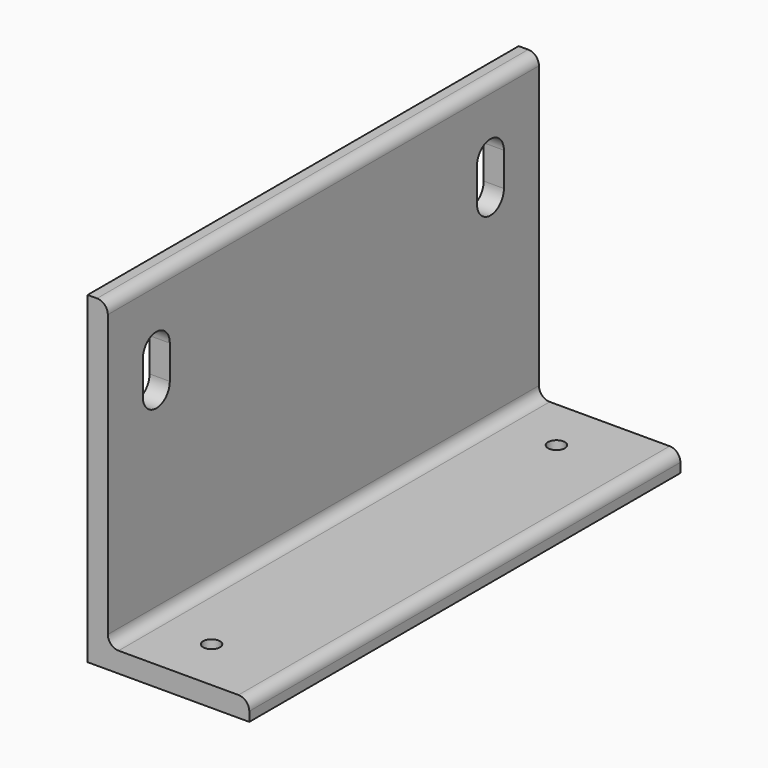
from build123d import *

# Parameters (mm, degrees)
F1_DEPTH = 127
F2_R     = 5.08
F4_DEPTH = 25.4
F5_R     = 3.9624
F6_DEPTH = 25.4


with BuildPart() as f1:
    # F0 (on Front) → F1 (new body, symmetric)
    with BuildSketch(Plane.XZ):
        Polygon((0, 152.4), (0, 0), (76.2, 0), (76.2, 9.525), (9.525, 9.525), (9.525, 152.4), align=None)
    extrude(amount=F1_DEPTH, both=True)

    # F2
    f2_edges = [f1.edges().sort_by_distance(p)[0] for p in [
        (9.525, 0, 152.4),
        (9.525, 0, 9.525),
        (76.2, 0, 9.525),
    ]]
    fillet(f2_edges, radius=F2_R)

    # F3 (on face) → F4 (cut)
    with BuildSketch(Plane(origin=(0, 0, 0), x_dir=(0, -1, 0), z_dir=(-1, 0, 0))):
        with BuildLine():
            Line((-90.4875, 104.775), (-90.4875, 120.65))
            ThreePointArc((-90.4875, 120.65), (-98.425, 128.5875), (-106.3625, 120.65))
            Line((-106.3625, 120.65), (-106.3625, 104.775))
            ThreePointArc((-106.3625, 104.775), (-98.425, 96.8375), (-90.4875, 104.775))
        make_face()
        with BuildLine():
            ThreePointArc((106.3625, 120.65), (98.425, 128.5875), (90.4875, 120.65))
            Line((90.4875, 120.65), (90.4875, 104.775))
            ThreePointArc((90.4875, 104.775), (98.425, 96.8375), (106.3625, 104.775))
            Line((106.3625, 104.775), (106.3625, 120.65))
        make_face()
    extrude(amount=-F4_DEPTH, mode=Mode.SUBTRACT)

    # F5 (on face) → F6 (cut)
    with BuildSketch(Plane(origin=(0, 0, 0), x_dir=(1, 0, 0), z_dir=(0, 0, -1))):
        with Locations((38.1, -101.6)):
            Circle(F5_R)
        with Locations((38.1, 101.6)):
            Circle(F5_R)
    extrude(amount=-F6_DEPTH, mode=Mode.SUBTRACT)


solid = f1.part
